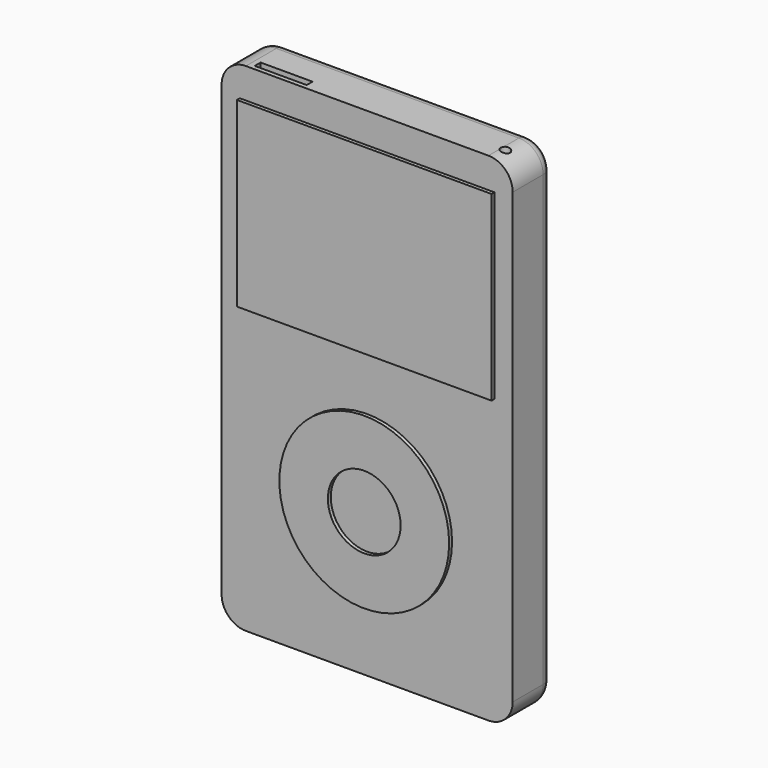
from build123d import *

# Parameters (mm, degrees)
F0_W      = 60.96
F0_H      = 104.14
F1_DEPTH  = 10.414
F2_R      = 5.08
F3_W      = 53.34
F3_H      = 38.1
F3_R      = 17.78
F3_R_2    = 7.62
F4_DEPTH  = 0.762
F5_R      = 2.4528409794
F7_R      = 0.9755927776
F7_W      = 10.8667761087
F7_H      = 1.5401728451
F8_DEPTH  = 4.318
F9_W      = 29.0065901354
F9_H      = 1.7113029025
F10_DEPTH = 4.064


with BuildPart() as f1:
    # F0 (on Front) → F1 (new body)
    with BuildSketch(Plane.XZ):
        with Locations((30.48, -52.07)):
            Rectangle(F0_W, F0_H)
    extrude(amount=F1_DEPTH)

    # F2
    f2_edges = [f1.edges().sort_by_distance(p)[0] for p in [
        (60.96, -5.207, 0),
        (0, -5.207, 0),
        (0, -5.207, -104.14),
        (60.96, -5.207, -104.14),
    ]]
    fillet(f2_edges, radius=F2_R)

    # F3 (on face) → F4 (join)
    with BuildSketch(Plane.XZ.offset(10.414)):
        with Locations((30.48, -25.4)):
            Rectangle(F3_W, F3_H)
        with Locations((30.48, -73.66)):
            Circle(F3_R)
        with Locations((30.48, -73.66)):
            Circle(F3_R_2, mode=Mode.SUBTRACT)
    extrude(amount=F4_DEPTH)

    # F5
    f5_edges = [f1.edges().sort_by_distance(p)[0] for p in [
        (1.487898, 0, -1.487898),
    ]]
    fillet(f5_edges, radius=F5_R)

    # F7 (on face) → F8 (cut)
    with BuildSketch(Plane.XY):
        with Locations((56.6684938967, -6.9853682071)):
            Circle(F7_R)
        with Locations((11.6184335202, -8.6966715753)):
            Rectangle(F7_W, F7_H)
    extrude(amount=-F8_DEPTH, mode=Mode.SUBTRACT)

    # F9 (on face) → F10 (cut)
    with BuildSketch(Plane(origin=(0, 0, -104.14), x_dir=(1, 0, 0), z_dir=(0, 0, -1))):
        with Locations((30.1111503504, 8.2802635152)):
            Rectangle(F9_W, F9_H)
    extrude(amount=-F10_DEPTH, mode=Mode.SUBTRACT)


solid = f1.part
